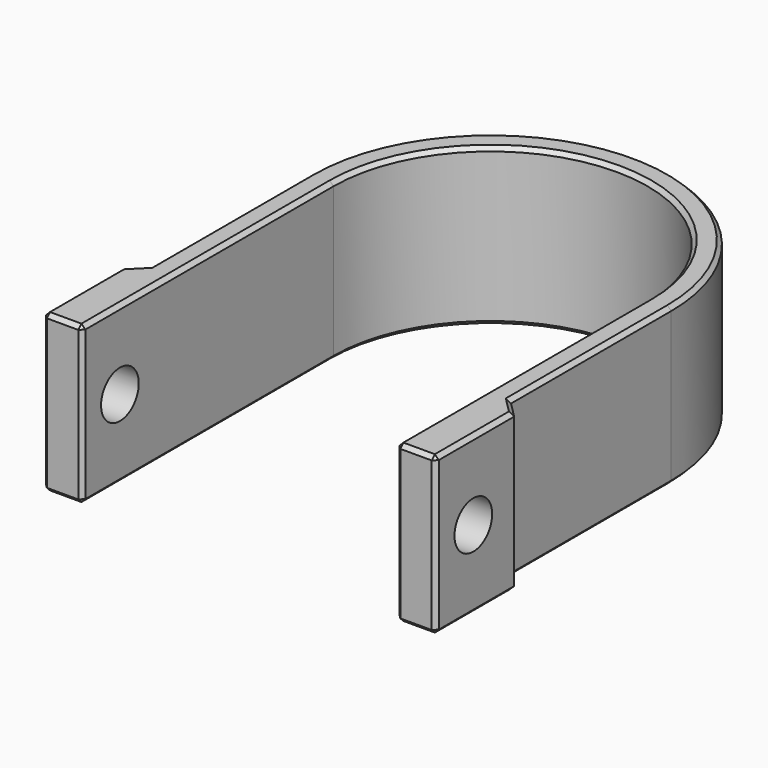
from build123d import *

# Parameters (mm, degrees)
F1_DEPTH = 40
F3_D     = 12
F4_SIZE  = 1


with BuildPart() as f1:
    # F0 (on Top) → F1 (new body)
    with BuildSketch(Plane.XY):
        with BuildLine():
            ThreePointArc((-40, 0), (0, 40), (40, 0))
            Line((40, 0), (40, -80))
            Line((40, -80), (50, -80))
            Line((50, -80), (50, -55))
            Line((50, -55), (46, -51))
            Line((46, -51), (46, 0))
            ThreePointArc((46, 0), (0, 46), (-46, 0))
            Line((-46, 0), (-46, -51))
            Line((-46, -51), (-50, -55))
            Line((-50, -55), (-50, -80))
            Line((-50, -80), (-40, -80))
            Line((-40, -80), (-40, 0))
        make_face()
    extrude(amount=F1_DEPTH)

    # F3 (through all)
    with Locations(Plane(origin=(-50, 0, 0), x_dir=(0, -1, 0), z_dir=(-1, 0, 0))):
        with Locations((68, 20)):
            Hole(F3_D / 2)

    # F4
    f4_edges = [f1.edges().sort_by_distance(p)[0] for p in [
        (40, -40, 40),
        (-40, -40, 0),
        (40, -80, 20),
        (-40, -80, 20),
        (-50, -80, 20),
        (-45, -80, 0),
        (-45, -80, 40),
        (45, -80, 40),
        (50, -80, 20),
        (45, -80, 0),
        (50, -67.5, 0),
        (50, -67.5, 40),
        (-50, -67.5, 40),
        (-50, -67.5, 0),
        (-46, -25.5, 0),
        (-46, -25.5, 40),
        (-48, -53, 40),
        (-48, -53, 0),
        (48, -53, 0),
        (48, -53, 40),
    ]]
    chamfer(f4_edges, length=F4_SIZE)


solid = f1.part
